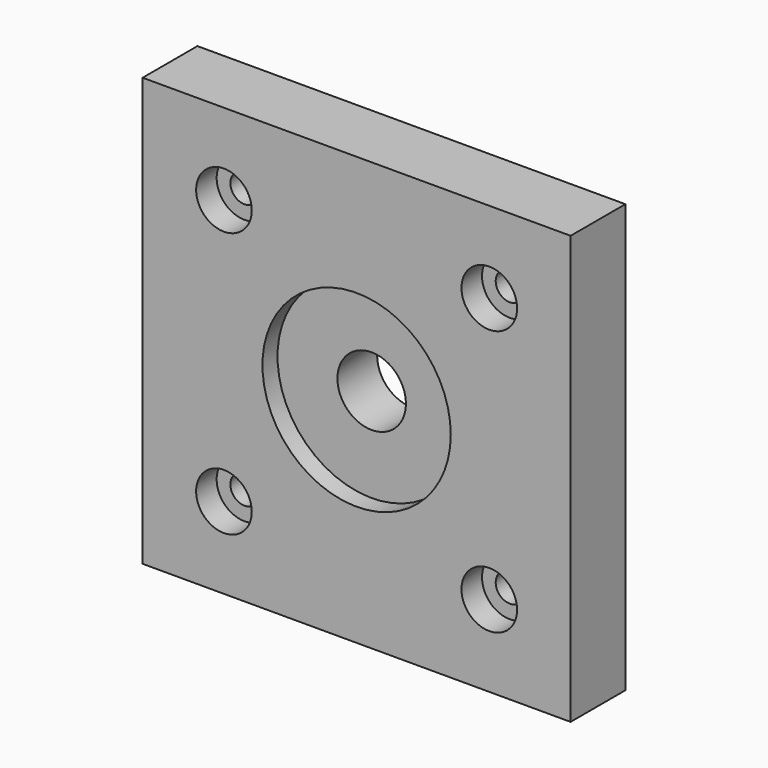
from build123d import *

# Parameters (mm, degrees)
F0_W           = 50
F0_H           = 50
F1_DEPTH       = 8
F3_D           = 8
F3_CBORE_D     = 22
F3_CBORE_DEPTH = 2.2
F5_D           = 3.3
F5_CBORE_D     = 6.5
F5_CBORE_DEPTH = 3


with BuildPart() as f1:
    # F0 (on Front) → F1 (new body)
    with BuildSketch(Plane.XZ):
        Rectangle(F0_W, F0_H)
    extrude(amount=F1_DEPTH)

    # F3 (through all)
    with Locations(Plane.XZ.offset(8)):
        with Locations((0, 0)):
            CounterBoreHole(F3_D / 2, F3_CBORE_D / 2, F3_CBORE_DEPTH)

    # F5 (through all)
    with Locations(Plane.XZ.offset(8)):
        with Locations((15.5, 15.5), (-15.5, 15.5), (-15.5, -15.5), (15.5, -15.5)):
            CounterBoreHole(F5_D / 2, F5_CBORE_D / 2, F5_CBORE_DEPTH)


solid = f1.part
